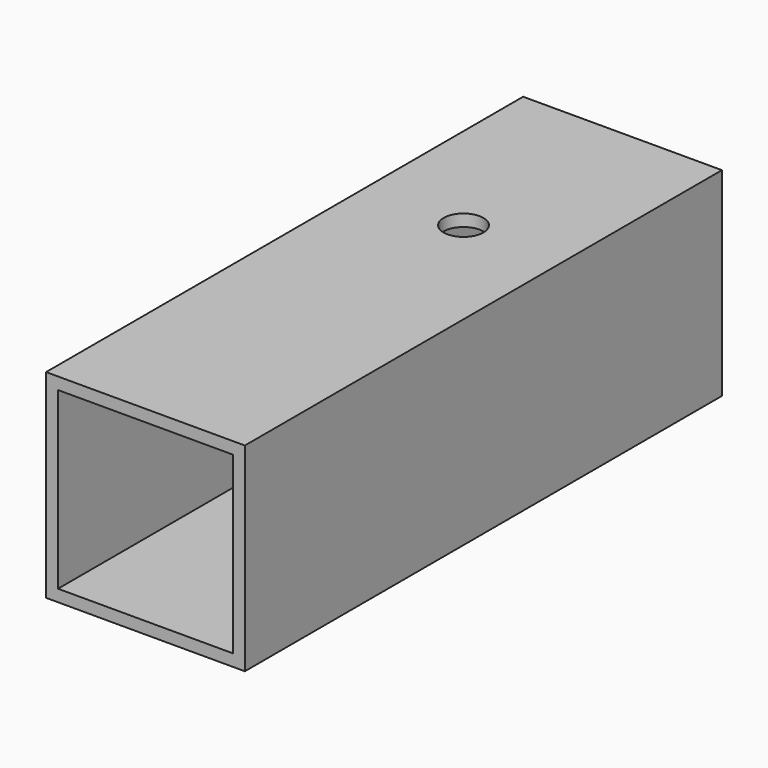
from build123d import *

# Parameters (mm, degrees)
F1_DEPTH = 75
F3_D     = 10


with BuildPart() as f1:
    # F0 (on Front) → F1 (new body, symmetric)
    with BuildSketch(Plane.XZ):
        Polygon((-25, 25), (-25, 0), (-25, -25), (25, -25), (25, 25), align=None)
        Polygon((-22, 22), (22, 22), (22, -22), (-22, -22), (-22, 0), align=None, mode=Mode.SUBTRACT)
    extrude(amount=F1_DEPTH, both=True)

    # F3 (through all)
    with Locations(Plane.XY.offset(25)):
        with Locations((0, 25)):
            Hole(F3_D / 2)


solid = f1.part
